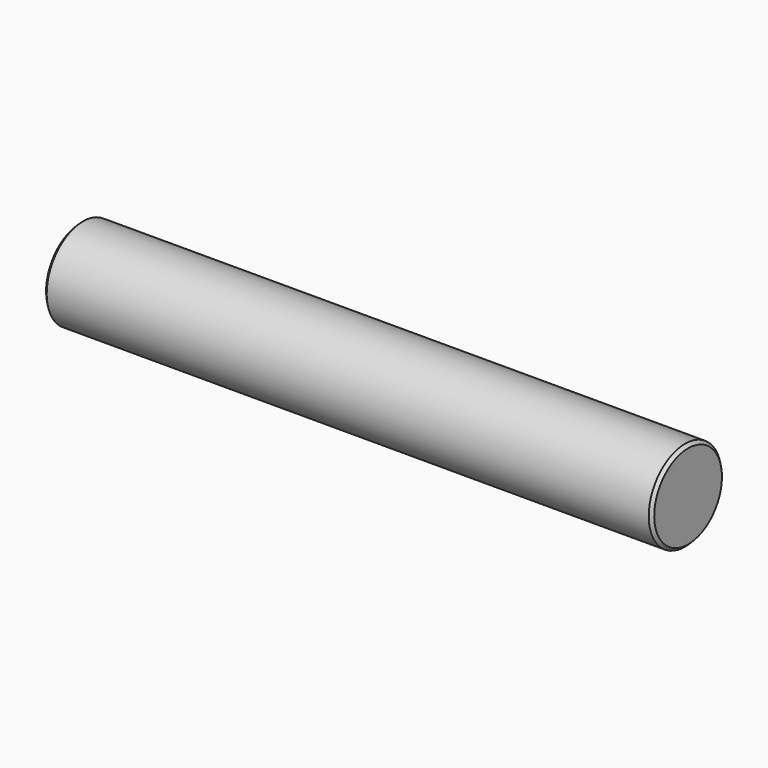
from build123d import *

# Parameters (mm, degrees)
F2_SIZE = 0.25


with BuildPart() as f1:
    # F0 (on Front) → F1 (revolve)
    with BuildSketch(Plane.XZ):
        Polygon((25, 0), (25, 3.73), (-25, 3.73), (-25, 0), (0, 0), align=None)
    revolve(axis=Axis((-16.784916, 0, 0), (-1, 0, 0)))

    # F2
    f2_edges = [f1.edges().sort_by_distance(p)[0] for p in [
        (25, 0, -3.73),
        (-25, 0, -3.73),
    ]]
    chamfer(f2_edges, length=F2_SIZE)


solid = f1.part
